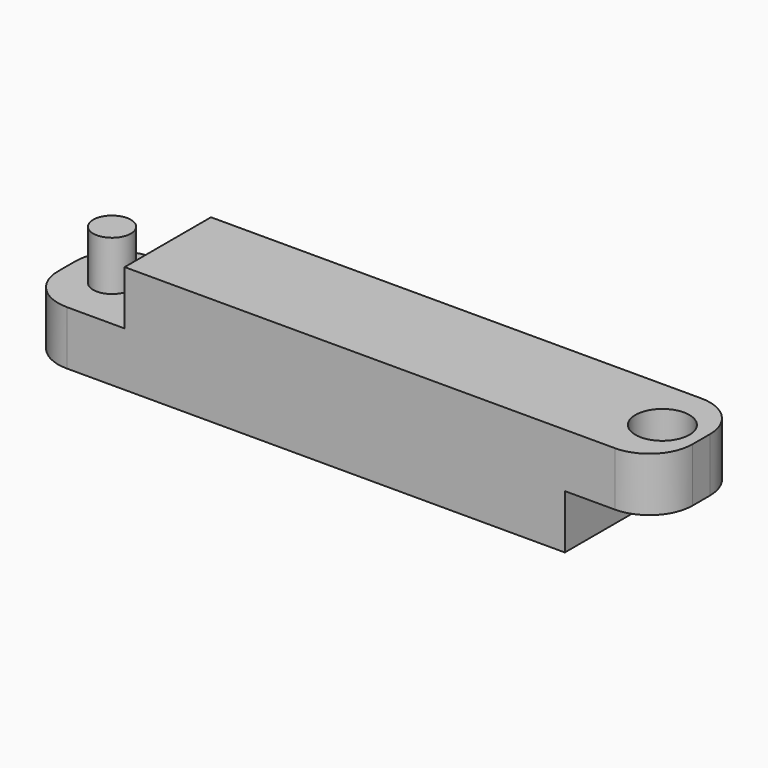
from build123d import *

# Parameters (mm, degrees)
F0_W     = 10.9691135585
F0_H     = 6.3602421433
F1_DEPTH = 6.35
F2_DEPTH = 6.35
F3_R     = 5.08
F5_D     = 6.35
F5_DEPTH = 6.0847096535
F6_R     = 2.2152679596
F7_DEPTH = 12.192


with BuildPart() as f1:
    # F0 (on Front) → F1 (new body)
    with BuildSketch(Plane.XZ):
        Polygon((-29.3124206364, -6.6367746331), (-29.3124206364, -0.2765324898), (-33.8291116059, -0.2765324898), (-37.5162102282, -0.2765324898), (-41.2033051252, -0.2765324898), (-41.2033051252, -6.6367746331), align=None)
        Polygon((22.4912911654, 6.0837096535), (-29.3124206364, 6.0837096535), (-29.3124206364, -0.2765324898), (-29.3124206364, -6.6367746331), (22.4912911654, -6.6367746331), (22.4912911654, -0.2765324898), align=None)
        with Locations((27.9758479446, 2.9035885818)):
            Rectangle(F0_W, F0_H)
    extrude(amount=F1_DEPTH)

    # F2 (add): a face of the model
    f2_faces = [f1.faces().sort_by_distance(p)[0] for p in [
        (-3.6826618353, 0, -0.2997111323),
    ]]
    extrude(f2_faces, amount=F2_DEPTH)

    # F3
    f3_edges = [f1.edges().sort_by_distance(p)[0] for p in [
        (-41.203305, -6.35, -3.456654),
        (-41.203305, 6.35, -3.456654),
        (33.460405, -6.35, 2.903589),
        (33.460405, 6.35, 2.903589),
    ]]
    fillet(f3_edges, radius=F3_R)

    # F5 (through all, one way)
    with BuildSketch(Plane(origin=(0, 0, 0), x_dir=(1, 0, 0), z_dir=(0, 0, -1))):
        with Locations((28.8903526962, 0)):
            Circle(F5_D / 2)
    extrude(amount=-F5_DEPTH, mode=Mode.SUBTRACT)

    # F6 (on face) → F7 (join)
    with BuildSketch(Plane(origin=(0, 0, -6.6367746331), x_dir=(1, 0, 0), z_dir=(0, 0, -1))):
        with Locations((-35.8759947121, 0)):
            Circle(F6_R)
    extrude(amount=-F7_DEPTH)


solid = f1.part
